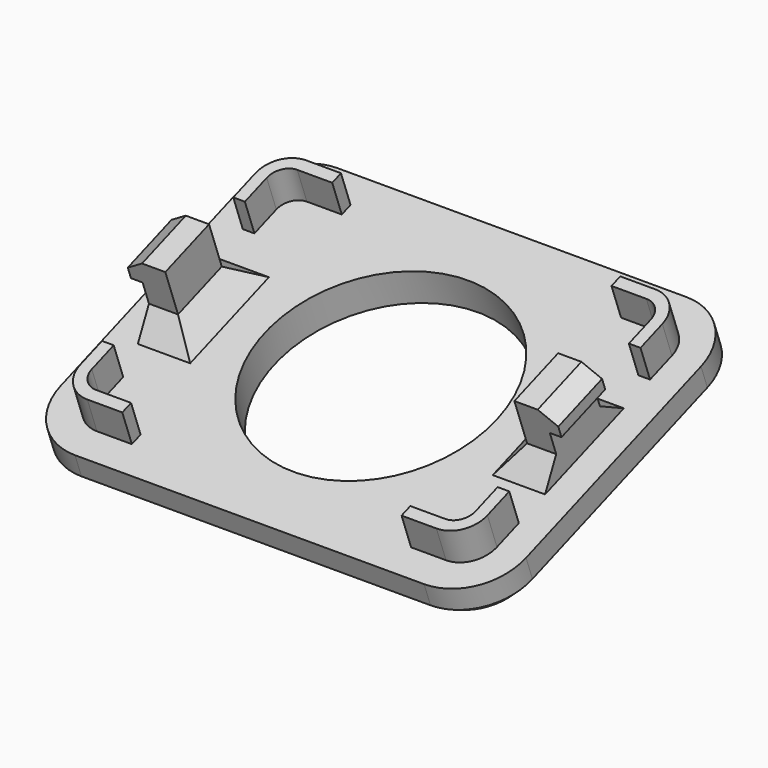
from build123d import *

# Parameters (mm, degrees)
SKETCH117_W             = 40
SKETCH117_H             = 30
SKETCH117_R             = 10
PAD021_DEPTH            = 3
SKETCH118_W             = 35
SKETCH118_H             = 25
SKETCH118_W_2           = 33
SKETCH118_H_2           = 23
PAD022_DEPTH            = 3
FILLET013_R             = 5
FILLET014_R             = 1.5
FILLET016_R             = 2.5
PAD023_DEPTH            = 2.5
SKETCH121_W             = 5
SKETCH121_H             = 3
POCKET043_DEPTH         = 37.501
CHAMFER002_SIZE         = 2
SKETCH122_W             = 24
SKETCH122_H             = 3
POCKET044_DEPTH         = 27.501
CHAMFER003_SIZE         = 1
BODY010_PLACEMENT_ANGLE = 20


with BuildPart() as part:
    # Sketch117 → Pad021 (new body)
    with BuildSketch(Plane.XY):
        Rectangle(SKETCH117_W, SKETCH117_H)
        Circle(SKETCH117_R, mode=Mode.SUBTRACT)
    extrude(amount=PAD021_DEPTH)

    # Sketch118 (on Face7 of Pad021) → Pad022 (join)
    with BuildSketch(Plane.XY.offset(3)):
        Rectangle(SKETCH118_W, SKETCH118_H)
        Rectangle(SKETCH118_W_2, SKETCH118_H_2, mode=Mode.SUBTRACT)
    extrude(amount=PAD022_DEPTH)

    # Fillet013
    fillet013_edges = [part.edges().sort_by_distance(p)[0] for p in [
        (20, -15, 1.5),
        (20, 15, 1.5),
        (-20, 15, 1.5),
        (-20, -15, 1.5),
    ]]
    fillet(fillet013_edges, radius=FILLET013_R)

    # Fillet014
    fillet014_edges = [part.edges().sort_by_distance(p)[0] for p in [
        (16.5, 11.5, 4.5),
        (16.5, -11.5, 4.5),
        (-16.5, -11.5, 4.5),
        (-16.5, 11.5, 4.5),
    ]]
    fillet(fillet014_edges, radius=FILLET014_R)

    # Fillet016
    fillet016_edges = [part.edges().sort_by_distance(p)[0] for p in [
        (-17.5, -12.5, 4.5),
        (-17.5, 12.5, 4.5),
        (17.5, 12.5, 4.5),
        (17.5, -12.5, 4.5),
    ]]
    fillet(fillet016_edges, radius=FILLET016_R)

    # Sketch119 (on Face14 of Fillet014) → Pad023 (join, symmetric)
    with BuildSketch(Plane(origin=(0, 0, 0), x_dir=(-1, 0, 0), z_dir=(0, 1, 0))):
        Polygon((15, 3), (17.5, 3), (17.5, 7), (18.5, 7), (18.5, 8), (17, 9), (15, 9), align=None)
    pad023 = extrude(amount=PAD023_DEPTH, both=True)

    # Mirrored003: Pad023 across Sketch119 V_Axis
    add(pad023.mirror(Plane(origin=(0, 0, 0), x_dir=(0, 1, 0), z_dir=(-1, 0, 0))))

    # Sketch121 (on Face5 of Mirrored003) → Pocket043 (cut, through all)
    with BuildSketch(Plane(origin=(-17.5, 0, 0), x_dir=(0, -1, 0), z_dir=(-1, 0, 0))):
        with Locations((-5, 4.5)):
            Rectangle(SKETCH121_W, SKETCH121_H)
        with Locations((5, 4.5)):
            Rectangle(SKETCH121_W, SKETCH121_H)
    extrude(amount=-POCKET043_DEPTH, mode=Mode.SUBTRACT)

    # Chamfer002
    chamfer002_edges = [part.edges().sort_by_distance(p)[0] for p in [
        (-16.25, -2.5, 3),
        (-15, 0, 3),
        (-16.25, 2.5, 3),
        (16.25, 2.5, 3),
        (15, 0, 3),
        (16.25, -2.5, 3),
    ]]
    chamfer(chamfer002_edges, length=CHAMFER002_SIZE)

    # Sketch122 (on Face36 of Chamfer002) → Pocket044 (cut, through all)
    with BuildSketch(Plane(origin=(0, 12.5, 0), x_dir=(-1, 0, 0), z_dir=(0, 1, 0))):
        with Locations((0, 4.5)):
            Rectangle(SKETCH122_W, SKETCH122_H)
    extrude(amount=-POCKET044_DEPTH, mode=Mode.SUBTRACT)

    # Chamfer003
    chamfer003_edges = [part.edges().sort_by_distance(p)[0] for p in [
        (0, 15, 0),
    ]]
    chamfer(chamfer003_edges, length=CHAMFER003_SIZE)


with BuildPart() as part_1:
    # Body010 placement: moved
    add(part.part.moved(Location((-357.518507, 122.858339, 205.085809))).rotate(Axis((-357.518507, 122.858339, 205.085809), (1, 0, 0)), BODY010_PLACEMENT_ANGLE))


solid = part_1.part
